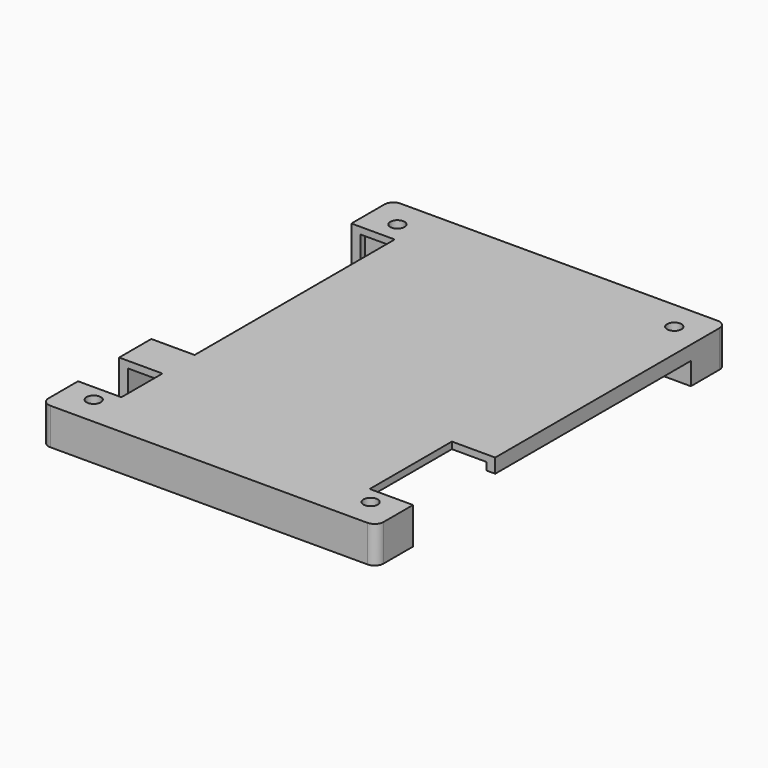
from build123d import *

# Parameters (mm, degrees)
F1_W      = 75
F1_H      = 98
F2_DEPTH  = 1.5
F3_W      = 75
F3_H      = 98
F4_DEPTH  = 6.7
F5_W      = 9.7
F5_H      = 56
F5_H_2    = 11.5
F5_H_3    = 23
F6_DEPTH  = 25
F7_R      = 1.6
F8_R      = 1.6
F9_DEPTH  = 25
F10_W     = 2
F10_H     = 54.75
F11_DEPTH = 5
F12_R     = 2


with BuildPart() as f2:
    # F1 (on Top) → F2 (new body)
    with BuildSketch(Plane.XY):
        with Locations((-2, -1.5)):
            Rectangle(F1_W, F1_H)
    extrude(amount=F2_DEPTH)

    # F3 (on face) → F4 (join)
    with BuildSketch(Plane(origin=(0, 0, 0), x_dir=(1, 0, 0), z_dir=(0, 0, -1))):
        with Locations((-2, 1.5)):
            Rectangle(F3_W, F3_H)
        Polygon((25.5, -37.5), (25.5, -45.5), (-29.5, -45.5), (-29.5, -37.5), (-37.5, -37.5), (-37.5, 40.5), (-29.5, 40.5), (-29.5, 48.5), (25.5, 48.5), (25.5, 40.5), (33.5, 40.5), (33.5, -37.5), align=None, mode=Mode.SUBTRACT)
    extrude(amount=F4_DEPTH)

    # F5 (on face) → F6 (cut)
    with BuildSketch(Plane(origin=(0, 0, -6.7), x_dir=(1, 0, 0), z_dir=(0, 0, -1))):
        with Locations((-34.65, -8.25)):
            Rectangle(F5_W, F5_H)
        with Locations((-34.65, -8.25)):
            Rectangle(F5_W, F5_H)
        with Locations((-34.65, 34.5)):
            Rectangle(F5_W, F5_H_2)
        with Locations((-34.65, 34.5)):
            Rectangle(F5_W, F5_H_2)
        with Locations((30.65, 28.75)):
            Rectangle(F5_W, F5_H_3)
        with Locations((30.65, 28.75)):
            Rectangle(F5_W, F5_H_3)
    extrude(amount=-F6_DEPTH, mode=Mode.SUBTRACT)

    # F7 (on face) + F8 (on face) → F9 (cut)
    with BuildSketch(Plane(origin=(0, 0, -6.7), x_dir=(1, 0, 0), z_dir=(0, 0, -1))):
        with Locations((29, -41)):
            Circle(F7_R)
        with Locations((-33, -41)):
            Circle(F7_R)
    with BuildSketch(Plane(origin=(0, 0, -6.7), x_dir=(1, 0, 0), z_dir=(0, 0, -1))):
        with Locations((-33, 44)):
            Circle(F8_R)
        with Locations((29, 44)):
            Circle(F8_R)
    extrude(amount=-F9_DEPTH, mode=Mode.SUBTRACT)

    # F10 (on face) → F11 (cut)
    with BuildSketch(Plane(origin=(0, 0, -6.7), x_dir=(1, 0, 0), z_dir=(0, 0, -1))):
        with Locations((34.5, -10.125)):
            Rectangle(F10_W, F10_H)
    extrude(amount=-F11_DEPTH, mode=Mode.SUBTRACT)

    # F12
    f12_edges = [f2.edges().sort_by_distance(p)[0] for p in [
        (-39.5, 47.5, -2.6),
        (35.5, 47.5, -2.6),
        (-39.5, -50.5, -2.6),
        (35.5, -50.5, -2.6),
    ]]
    fillet(f12_edges, radius=F12_R)


solid = f2.part
